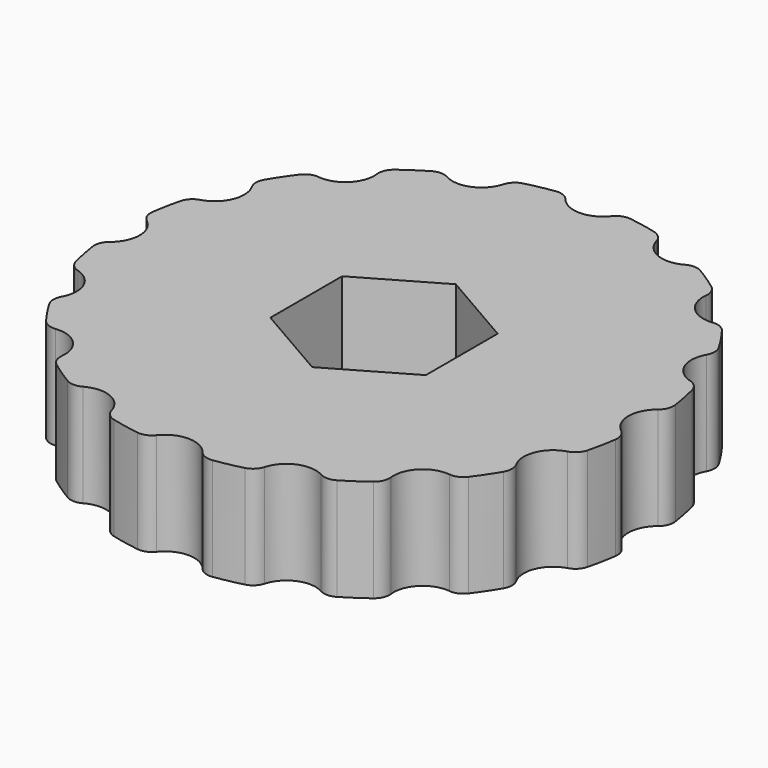
from build123d import *

# Parameters (mm, degrees)
CYLINDER_R       = 2.65
CYLINDER_DEPTH   = 20
PAD_DEPTH        = 10
SKETCH_W         = 13.5
SKETCH_H         = 5.25
REVOLUTION_ANGLE = -22.5
SKETCH001_R      = 1.5
POCKET_DEPTH     = 5.251
FILLET_R         = 0.8
ARRAY_COUNT      = 16


with BuildPart() as obj1:
    # Cylinder → Cylinder (new body)
    with BuildSketch(Plane.XY):
        Circle(CYLINDER_R)
    extrude(amount=CYLINDER_DEPTH)


with BuildPart() as obj1_1:
    # Clone001 placement: moved
    add(obj1.part.moved(Location((0, 0, -3))))


with BuildPart() as clone_of_nutslot001:
    # Sketch003 → Pad (new body)
    with BuildSketch(Plane.XY):
        Polygon((3.975, -2.294967), (3.975, 2.294967), (0, 4.589935), (-3.975, 2.294967), (-3.975, -2.294967), (0, -4.589935), align=None)
    extrude(amount=PAD_DEPTH)


with BuildPart() as clone_of_nutslot001_1:
    # Clone placement: moved
    add(clone_of_nutslot001.part.moved(Location((0, 0, 0.5))))


with BuildPart() as hardwarecuts:
    # Sketch → Revolution (revolve, symmetric)
    with BuildSketch(Plane.XZ) as revolution_sk:
        with Locations((6.75, 2.625)):
            Rectangle(SKETCH_W, SKETCH_H)
    revolve(axis=Axis((0, 0, 0), (0, 0, 1)), revolution_arc=REVOLUTION_ANGLE / 2)
    revolve(revolution_sk.sketch, axis=Axis((0, 0, 0), (0, 0, -1)), revolution_arc=REVOLUTION_ANGLE / 2)

    # Sketch001 → Pocket (cut, through all)
    with BuildSketch(Plane(origin=(0, 0, 5.25), x_dir=(-1, 0, 0), z_dir=(0, 0, 1))):
        with Locations((-14, 0)):
            Circle(SKETCH001_R)
    extrude(amount=-POCKET_DEPTH, mode=Mode.SUBTRACT)

    # Fillet
    fillet_edges = [hardwarecuts.edges().sort_by_distance(p)[0] for p in [
        (13.428571, -1.386892, 2.625),
        (13.428571, 1.386892, 2.625),
    ]]
    fillet(fillet_edges, radius=FILLET_R)

    # Array: HardwareCuts ×16 about axis
    array_axis = Axis((0, 0, 0), (0, 0, 1))


with BuildPart() as hardwarecuts_1:
    add(hardwarecuts.part)
    for i in range(1, ARRAY_COUNT):
        add(hardwarecuts.part.rotate(array_axis, i * 360 / ARRAY_COUNT))

    # Cut: cut Clone of NutSlot001
    add(clone_of_nutslot001_1.part, mode=Mode.SUBTRACT)

    # Cut001: cut obj1
    add(obj1_1.part, mode=Mode.SUBTRACT)


solid = hardwarecuts_1.part
